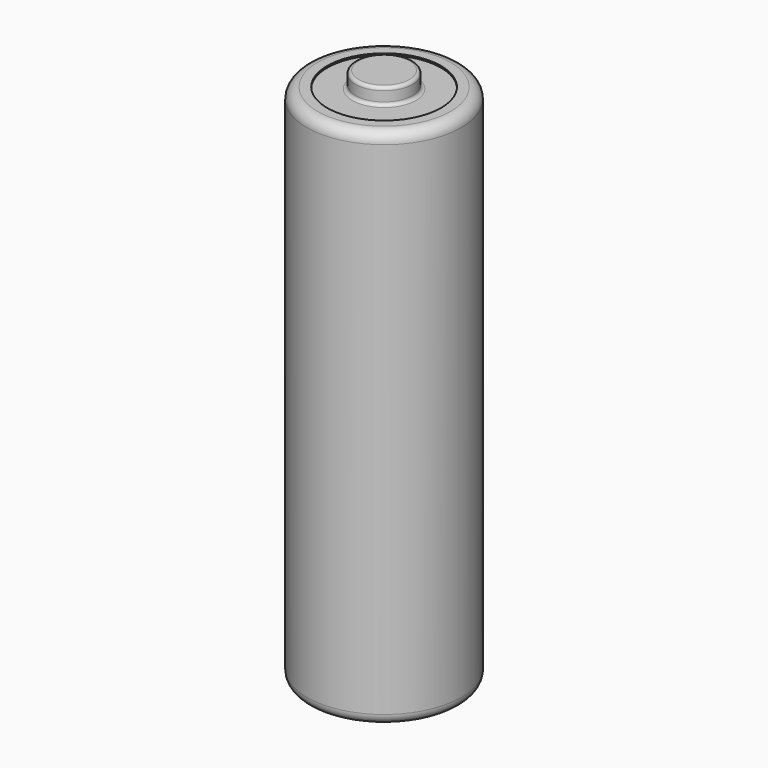
from build123d import *

# Parameters (mm, degrees)
SKETCH_R          = 7.18
PAD_DEPTH         = 24.325
SKETCH001_R       = 5.295
POCKET_DEPTH      = 0.15
SKETCH002_R       = 2.66
PAD001_DEPTH      = 1.37
PAD001_DEPTH_BACK = 1
SKETCH003_R       = 5.28
POCKET001_DEPTH   = 0.5
FILLET_R          = 1
FILLET001_R       = 0.3


with BuildPart() as part:
    # Sketch → Pad (new body, symmetric)
    with BuildSketch(Plane.XY):
        Circle(SKETCH_R)
    extrude(amount=PAD_DEPTH, both=True)

    # Sketch001 (on DatumPlane) → Pocket (cut)
    with BuildSketch(Plane.XY.offset(24.325)):
        Circle(SKETCH001_R)
    extrude(amount=-POCKET_DEPTH, mode=Mode.SUBTRACT)

    # Sketch002 (on DatumPlane) → Pad001 (join, two sides)
    with BuildSketch(Plane.XY.offset(24.325)) as pad001_sk:
        Circle(SKETCH002_R)
    extrude(amount=PAD001_DEPTH)
    extrude(pad001_sk.sketch, amount=-PAD001_DEPTH_BACK)

    # Sketch003 (on DatumPlane) → Pocket001 (cut)
    with BuildSketch(Plane.XY.offset(-24.325)):
        Circle(SKETCH003_R)
    extrude(amount=POCKET001_DEPTH, mode=Mode.SUBTRACT)

    # Fillet
    fillet_edges = [part.edges().sort_by_distance(p)[0] for p in [
        (-7.18, 0, 24.325),
        (-7.18, 0, -24.325),
    ]]
    fillet(fillet_edges, radius=FILLET_R)

    # Fillet001
    fillet001_edges = [part.edges().sort_by_distance(p)[0] for p in [
        (-2.66, 0, 25.695),
        (-2.66, 0, 24.175),
    ]]
    fillet(fillet001_edges, radius=FILLET001_R)


solid = part.part
